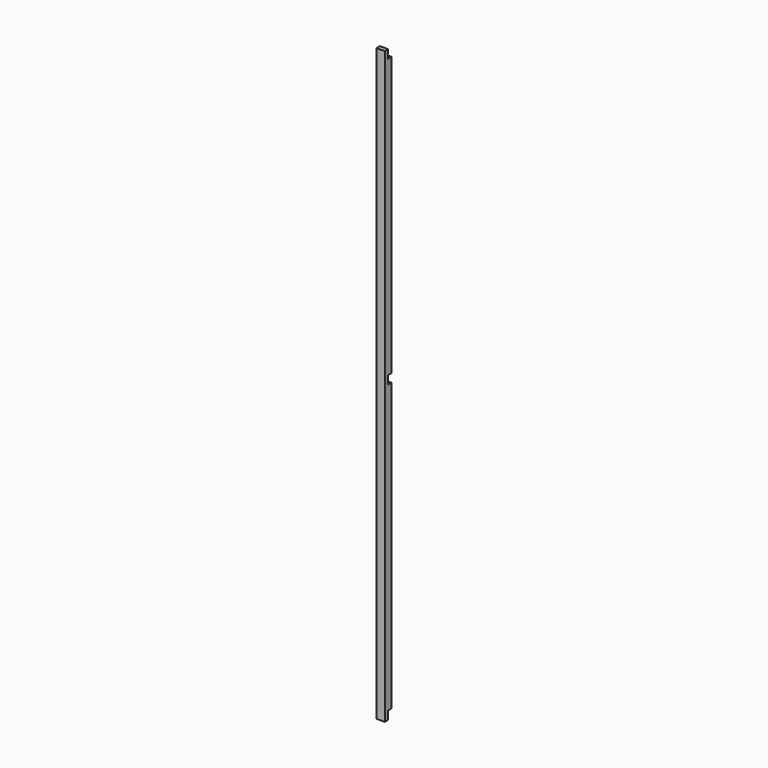
from build123d import *

# Parameters (mm, degrees)
F1_DEPTH = 10
F2_R     = 2
F3_DEPTH = 4.5
F5_W     = 5
F5_H     = 10
F6_DEPTH = 10.001
F7_R     = 2
F8_DEPTH = 4.5


with BuildPart() as f1:
    # F0 (on Right) → F1 (new body)
    with BuildSketch(Plane.YZ):
        Polygon((-10, 0), (0, 0), (0, 340), (-5, 340), (-5, 350), (-10, 350), align=None)
    extrude(amount=F1_DEPTH)

    # F2 (on face) → F3 (cut)
    with BuildSketch(Plane(origin=(0, -5, 0), x_dir=(-1, 0, 0), z_dir=(0, 1, 0))):
        with Locations((-5, 345)):
            Circle(F2_R)
    extrude(amount=-F3_DEPTH, mode=Mode.SUBTRACT)

    # F4: F1 across plane


with BuildPart() as f1_1:
    add(f1.part)
    add(f1.part.mirror(Plane.XY))

    # F5 (on face) → F6 (cut, through all)
    with BuildSketch(Plane.YZ.offset(10)):
        with Locations((-2.5, 5)):
            Rectangle(F5_W, F5_H)
    extrude(amount=-F6_DEPTH, mode=Mode.SUBTRACT)

    # F7 (on face) → F8 (cut)
    with BuildSketch(Plane(origin=(0, -5, 0), x_dir=(-1, 0, 0), z_dir=(0, 1, 0))):
        with Locations((-5, 5)):
            Circle(F7_R)
    extrude(amount=-F8_DEPTH, mode=Mode.SUBTRACT)


solid = f1_1.part
